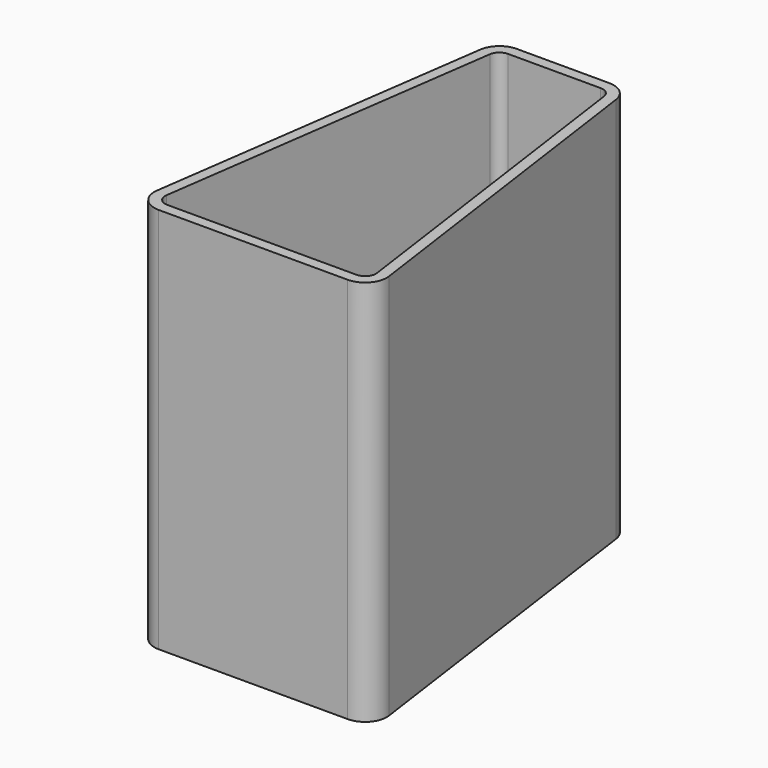
from build123d import *

# Parameters (mm, degrees)
F1_DEPTH = 89
F2_R     = 5
F3_T     = -2.5


with BuildPart() as f1:
    # F0 (on Top) → F1 (new body)
    with BuildSketch(Plane.XY):
        Polygon((-21.937249, 72.949414), (-34.437249, -16.178304), (20.562751, -16.178304), (8.062751, 72.949414), align=None)
    extrude(amount=F1_DEPTH)

    # F2
    f2_edges = [f1.edges().sort_by_distance(p)[0] for p in [
        (-34.437249, -16.178304, 44.5),
        (20.562751, -16.178304, 44.5),
        (8.062751, 72.949414, 44.5),
        (-21.937249, 72.949414, 44.5),
    ]]
    fillet(f2_edges, radius=F2_R)

    # F3
    f3_openings = [f1.faces().sort_by_distance(p)[0] for p in [
        (-6.937249, 24.070878, 89),
    ]]
    offset(amount=F3_T, openings=f3_openings)


solid = f1.part
